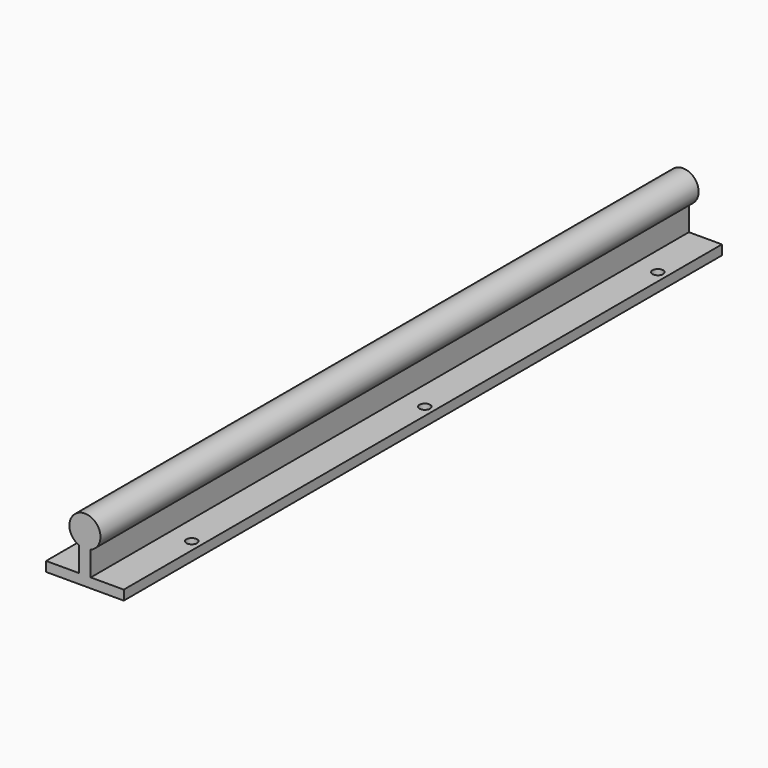
from build123d import *

# Parameters (mm, degrees)
F2_DEPTH = 385
F1_R     = 2.75
F3_DEPTH = 2.75


with BuildPart() as f2:
    # F0 (on Front) → F2 (new body)
    with BuildSketch(Plane.XZ):
        with BuildLine():
            Line((20, -2.5), (20, 2.5))
            Line((20, 2.5), (3, 2.5))
            Line((3, 2.5), (3, 15.0838015129))
            ThreePointArc((3, 15.0838015129), (0, 30.5), (-3, 15.0838015129))
            Line((-3, 15.0838015129), (-3, 2.5))
            Line((-3, 2.5), (-20, 2.5))
            Line((-20, 2.5), (-20, -2.5))
            Line((-20, -2.5), (20, -2.5))
        make_face()
    extrude(amount=-F2_DEPTH)

    # F1 (on Top) → F3 (cut, symmetric)
    with BuildSketch(Plane.XY):
        with Locations((15, 50)):
            Circle(F1_R)
        with Locations((15, 200)):
            Circle(F1_R)
        with Locations((15, 350)):
            Circle(F1_R)
        with Locations((-15, 50)):
            Circle(F1_R)
        with Locations((-15, 200)):
            Circle(F1_R)
        with Locations((-15, 350)):
            Circle(F1_R)
    extrude(amount=F3_DEPTH, both=True, mode=Mode.SUBTRACT)


solid = f2.part
